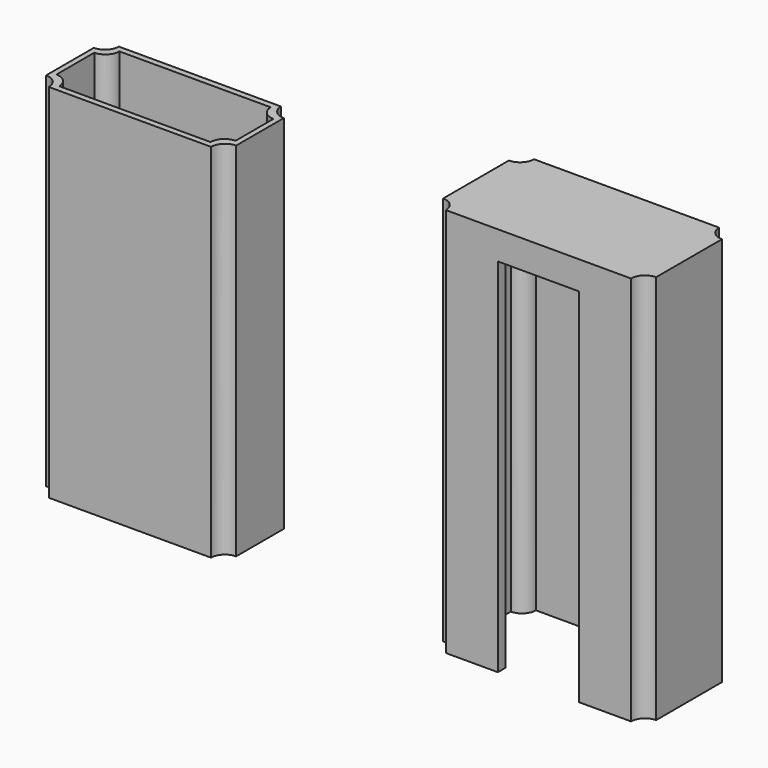
from build123d import *

# Parameters (mm, degrees)
PAD_DEPTH    = 115.6
PAD001_DEPTH = 3
SKETCH001_W  = 24.7
SKETCH001_H  = 110
POCKET_DEPTH = 3
PAD002_DEPTH = 110


with BuildPart() as body:
    # Sketch → Pad (new body)
    with BuildSketch(Plane.XY):
        with BuildLine():
            Line((-28.157359, 16.75), (28.157359, 16.75))
            ThreePointArc((28.157359, 16.75), (29.399999, 13.750001), (32.399997, 12.507359))
            Line((32.399997, 12.507359), (32.399997, -12.507359))
            ThreePointArc((32.399997, -12.507359), (29.399999, -13.750001), (28.157359, -16.75))
            Line((28.157359, -16.75), (-28.157359, -16.75))
            ThreePointArc((-28.157359, -16.75), (-29.4, -13.75), (-32.4, -12.507359))
            Line((-32.4, -12.507359), (-32.4, 12.507359))
            ThreePointArc((-32.4, 12.507359), (-29.4, 13.75), (-28.157359, 16.75))
        make_face()
        with BuildLine():
            Line((-29.4, 9.507359), (-29.4, -9.507359))
            ThreePointArc((-25.157359, -13.75), (-26.4, -10.75), (-29.4, -9.507359))
            Line((-25.157359, -13.75), (25.157359, -13.75))
            ThreePointArc((29.4, -9.507359), (26.4, -10.75), (25.157359, -13.75))
            Line((29.4, 9.507359), (29.4, -9.507359))
            ThreePointArc((25.157359, 13.75), (26.4, 10.75), (29.4, 9.507359))
            Line((-25.157359, 13.75), (25.157359, 13.75))
            ThreePointArc((-29.4, 9.507359), (-26.4, 10.75), (-25.157359, 13.75))
        make_face(mode=Mode.SUBTRACT)
    extrude(amount=PAD_DEPTH)

    # Binder → Pad001 (join)
    with BuildSketch(Plane(origin=(-1e-06, 0, 115.6), x_dir=(0, 1, 0), z_dir=(0, 0, 1))):
        with BuildLine():
            Line((-12.507359, -32.399998), (12.507359, -32.399998))
            ThreePointArc((12.507359, -32.399998), (13.750001, -29.4), (16.75, -28.15736))
            Line((16.75, -28.15736), (16.75, 28.157358))
            ThreePointArc((16.75, 28.157358), (13.75, 29.399999), (12.507359, 32.399999))
            Line((12.507359, 32.399999), (-12.507359, 32.399999))
            ThreePointArc((-12.507359, 32.399999), (-13.75, 29.399999), (-16.75, 28.157358))
            Line((-16.75, 28.157358), (-16.75, -28.15736))
            ThreePointArc((-16.75, -28.15736), (-13.750001, -29.4), (-12.507359, -32.399998))
        make_face()
    extrude(amount=PAD001_DEPTH)

    # Sketch001 → Pocket (cut)
    with BuildSketch(Plane.XZ.offset(16.75)):
        with Locations((0, 55)):
            Rectangle(SKETCH001_W, SKETCH001_H)
    extrude(amount=-POCKET_DEPTH, mode=Mode.SUBTRACT)


with BuildPart() as body_1:
    # Body placement: moved
    add(body.part.moved(Location((127, 0, 0))))


with BuildPart() as body001:
    # Sketch002 → Pad002 (new body)
    with BuildSketch(Plane.XY):
        with BuildLine():
            Line((-28.9, 9.057359), (-28.9, -9.057359))
            ThreePointArc((-24.657359, -13.3), (-25.9, -10.3), (-28.9, -9.057359))
            Line((-24.657359, -13.3), (24.657359, -13.3))
            ThreePointArc((28.9, -9.057359), (25.9, -10.3), (24.657359, -13.3))
            Line((28.9, 9.057359), (28.9, -9.057359))
            ThreePointArc((24.657359, 13.3), (25.9, 10.3), (28.9, 9.057359))
            Line((-24.657359, 13.3), (24.657359, 13.3))
            ThreePointArc((-28.9, 9.057359), (-25.9, 10.3), (-24.657359, 13.3))
        make_face()
        with BuildLine():
            Line((-27.25, 7.207359), (-27.25, -7.207359))
            ThreePointArc((-23.007359, -11.45), (-24.25, -8.45), (-27.25, -7.207359))
            Line((-23.007359, -11.45), (23.007359, -11.45))
            ThreePointArc((27.25, -7.207359), (24.25, -8.45), (23.007359, -11.45))
            Line((27.25, 7.207359), (27.25, -7.207359))
            ThreePointArc((23.007359, 11.45), (24.25, 8.45), (27.25, 7.207359))
            Line((-23.007359, 11.45), (23.007359, 11.45))
            ThreePointArc((-27.25, 7.207359), (-24.25, 8.45), (-23.007359, 11.45))
        make_face(mode=Mode.SUBTRACT)
    extrude(amount=PAD002_DEPTH)


solid = Compound([body_1.part, body001.part])
